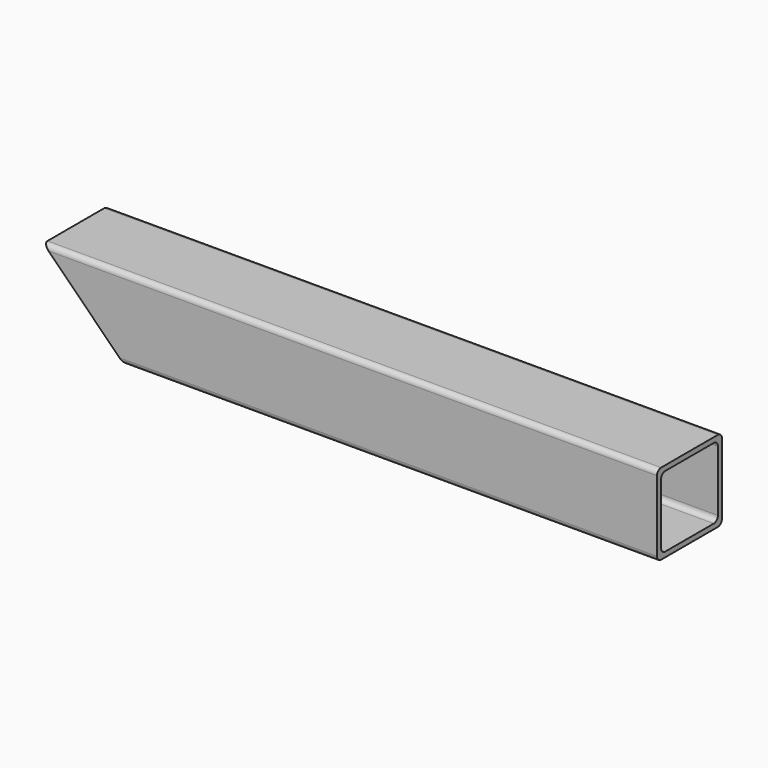
from build123d import *

# Parameters (mm, degrees)
F1_DEPTH      = 384.302
F3_DEPTH      = 25.4
F3_DEPTH_BACK = 25.4


with BuildPart() as f1:
    # F0 (on Right) → F1 (new body)
    with BuildSketch(Plane.YZ):
        with BuildLine():
            ThreePointArc((25.4, 22.225), (24.4700640303, 24.4700640303), (22.225, 25.4))
            Line((22.225, 25.4), (-22.225, 25.4))
            ThreePointArc((-22.225, 25.4), (-24.4700640303, 24.4700640303), (-25.4, 22.225))
            Line((-25.4, 22.225), (-25.4, -22.225))
            ThreePointArc((-25.4, -22.225), (-24.4700640303, -24.4700640303), (-22.225, -25.4))
            Line((-22.225, -25.4), (22.225, -25.4))
            ThreePointArc((22.225, -25.4), (24.4700640303, -24.4700640303), (25.4, -22.225))
            Line((25.4, -22.225), (25.4, 22.225))
        make_face()
        with BuildLine():
            Line((-19.05, 22.225), (19.05, 22.225))
            ThreePointArc((19.05, 22.225), (21.2950640303, 21.2950640303), (22.225, 19.05))
            Line((22.225, 19.05), (22.225, -19.05))
            ThreePointArc((22.225, -19.05), (21.2950640303, -21.2950640303), (19.05, -22.225))
            Line((19.05, -22.225), (-19.05, -22.225))
            ThreePointArc((-19.05, -22.225), (-21.2950640303, -21.2950640303), (-22.225, -19.05))
            Line((-22.225, -19.05), (-22.225, 19.05))
            ThreePointArc((-22.225, 19.05), (-21.2950640303, 21.2950640303), (-19.05, 22.225))
        make_face(mode=Mode.SUBTRACT)
    extrude(amount=F1_DEPTH)

    # F2 (on Front) → F3 (cut, two sides)
    with BuildSketch(Plane.XZ) as f3_sk:
        Polygon((0, -25.4), (50.8, -25.4), (0, 25.4), align=None)
    extrude(amount=-F3_DEPTH, mode=Mode.SUBTRACT)
    extrude(f3_sk.sketch, amount=F3_DEPTH_BACK, mode=Mode.SUBTRACT)


solid = f1.part
